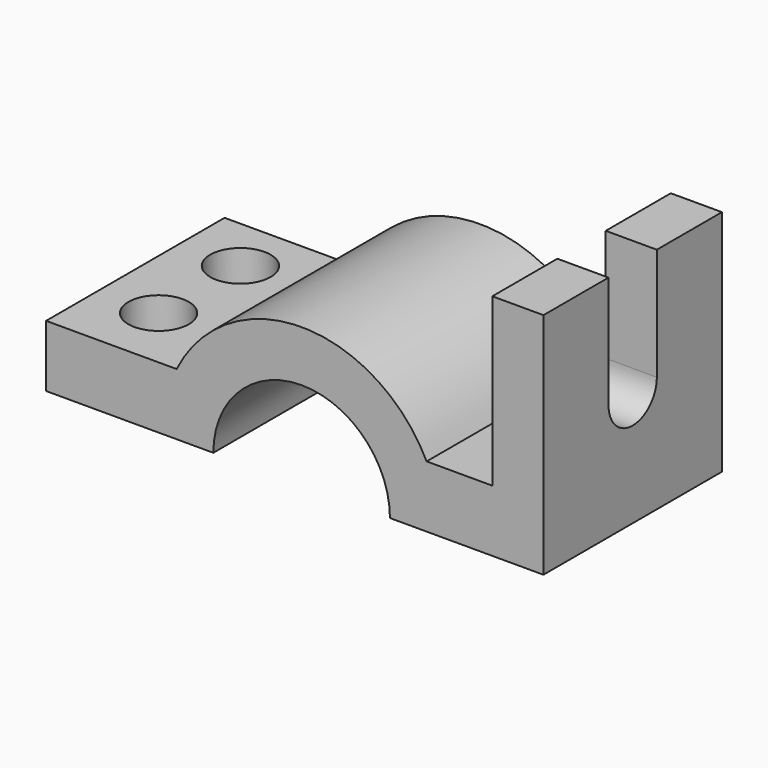
from build123d import *

# Parameters (mm, degrees)
F1_DEPTH = 48
F3_DEPTH = 11
F4_R     = 6.5
F5_DEPTH = 13.300004


with BuildPart() as f1:
    # F0 (on Front) → F1 (new body)
    with BuildSketch(Plane.XZ):
        with BuildLine():
            Line((-54.981197, 0), (-19, 0))
            ThreePointArc((-19, 0), (0, 19), (19, 0))
            Line((19, 0), (52.018803, 0))
            Line((52.018803, 0), (52.018803, 49.16832))
            Line((52.018803, 49.16832), (41.018803, 49.16832))
            Line((41.018803, 49.16832), (41.018803, 13.299004))
            Line((41.018803, 13.299004), (26.891197, 13.299004))
            ThreePointArc((26.891197, 13.299004), (0, 30), (-26.891197, 13.299004))
            Line((-26.891197, 13.299004), (-54.981197, 13.299004))
            Line((-54.981197, 13.299004), (-54.981197, 0))
        make_face()
    extrude(amount=-F1_DEPTH)

    # F2 (on face) → F3 (cut)
    with BuildSketch(Plane.YZ.offset(52.018803)):
        with BuildLine():
            Line((30.5, 49.16832), (17.5, 49.16832))
            Line((17.5, 49.16832), (17.5, 25))
            ThreePointArc((17.5, 25), (24, 18.5), (30.5, 25))
            Line((30.5, 25), (30.5, 49.16832))
        make_face()
    extrude(amount=-F3_DEPTH, mode=Mode.SUBTRACT)

    # F4 (on face) → F5 (cut, through all)
    with BuildSketch(Plane.XY.offset(13.299004)):
        with Locations((-41.981197, 36.00838)):
            Circle(F4_R)
        with Locations((-41.981197, 14.00838)):
            Circle(F4_R)
    extrude(amount=-F5_DEPTH, mode=Mode.SUBTRACT)


solid = f1.part
